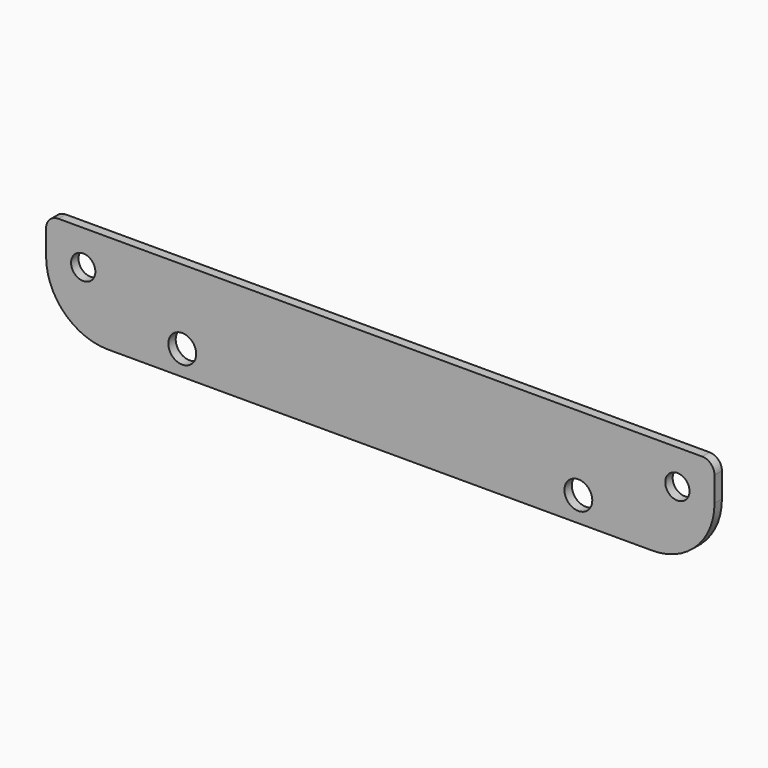
from build123d import *

# Parameters (mm, degrees)
F0_R     = 7.1501
F0_R_2   = 6.227401
F1_DEPTH = 4.7498


with BuildPart() as f1:
    # F0 (on Front) → F1 (new body)
    with BuildSketch(Plane.XZ):
        with BuildLine():
            Line((-139.7, -25.4), (139.7, -25.4))
            ThreePointArc((139.7, -25.4), (162.15064, -16.10064), (171.45, 6.35))
            Line((171.45, 6.35), (171.45, 19.05))
            ThreePointArc((171.45, 19.05), (169.590128, 23.540128), (165.1, 25.4))
            Line((165.1, 25.4), (-165.1, 25.4))
            ThreePointArc((-165.1, 25.4), (-169.590128, 23.540128), (-171.45, 19.05))
            Line((-171.45, 19.05), (-171.45, 6.35))
            ThreePointArc((-171.45, 6.35), (-162.15064, -16.10064), (-139.7, -25.4))
        make_face()
        with Locations((-101.6, -12.7)):
            Circle(F0_R, mode=Mode.SUBTRACT)
        with Locations((101.6, -12.7)):
            Circle(F0_R, mode=Mode.SUBTRACT)
        with Locations((-152.4, 7.62)):
            Circle(F0_R_2, mode=Mode.SUBTRACT)
        with Locations((152.4, 7.62)):
            Circle(F0_R_2, mode=Mode.SUBTRACT)
    extrude(amount=F1_DEPTH)


solid = f1.part
